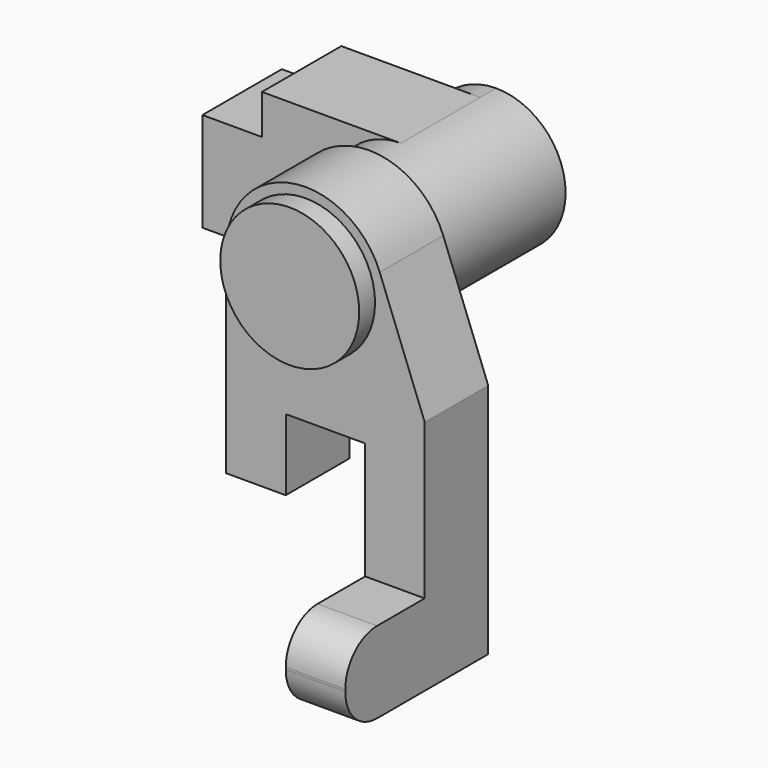
from build123d import *

# Parameters (mm, degrees)
F0_R     = 17.5
F0_W     = 15
F0_H     = 20.5103583336
F1_DEPTH = 20
F2_DEPTH = 45
F3_DEPTH = 25
F4_DEPTH = 40
F5_R     = 10
F7_DEPTH = 30
F8_DEPTH = 5


with BuildPart() as f1:
    # F0 (on Front) → F1 (new body)
    with BuildSketch(Plane.XZ):
        with BuildLine():
            ThreePointArc((-20, 0), (0, -20), (20, 0))
            ThreePointArc((20, 0), (19.6666655648, 3.6362433309), (18.6777734439, 7.1512781501))
            ThreePointArc((18.6777734439, 7.1512781501), (-3.6362433309, 19.6666655648), (-20, 0))
        make_face()
        Circle(F0_R, mode=Mode.SUBTRACT)
        with BuildLine():
            ThreePointArc((18.6777734439, 7.1512781501), (19.6666655648, 3.6362433309), (20, 0))
            ThreePointArc((20, 0), (0, -20), (-20, 0))
            Line((-20, 0), (-20, -50))
            Line((-20, -50), (-5, -50))
            Line((-5, -50), (-5, -32))
            Line((-5, -32), (15, -32))
            Line((15, -32), (15, -61.4896416664))
            Line((15, -61.4896416664), (30, -61.4896416664))
            Line((30, -61.4896416664), (30, -22.4202163517))
            Line((30, -22.4202163517), (18.6777734439, 7.1512781501))
        make_face()
        with Locations((22.5, -71.7448208332)):
            Rectangle(F0_W, F0_H)
    extrude(amount=F1_DEPTH)

    # F0 (on Front) → F2 (join)
    with BuildSketch(Plane.XZ):
        with Locations((22.5, -71.7448208332)):
            Rectangle(F0_W, F0_H)
    extrude(amount=F2_DEPTH)

    # F0 (on Front) → F3 (join)
    with BuildSketch(Plane.XZ):
        Circle(F0_R)
    extrude(amount=F3_DEPTH)

    # F0 (on Front) → F4 (join)
    with BuildSketch(Plane.XZ):
        Circle(F0_R)
    extrude(amount=-F4_DEPTH)

    # F5
    f5_edges = [f1.edges().sort_by_distance(p)[0] for p in [
        (22.5, -45, -61.489642),
        (22.5, -45, -82),
    ]]
    fillet(f5_edges, radius=F5_R)

    # F6 (on face) → F7 (join)
    with BuildSketch(Plane(origin=(0, 40, 0), x_dir=(-1, 0, 0), z_dir=(0, 1, 0))):
        with BuildLine():
            Line((35, 17.5), (0, 17.5))
            ThreePointArc((0, 17.5), (12.3743686708, 12.3743686708), (17.5, 0))
            ThreePointArc((17.5, 0), (12.3743686708, -12.3743686708), (0, -17.5))
            Line((0, -17.5), (50, -17.5))
            Line((50, -17.5), (50, 7.5))
            Line((50, 7.5), (35, 7.5))
            Line((35, 7.5), (35, 17.5))
        make_face()
    extrude(amount=-F7_DEPTH)

    # F6 (on face) → F8 (cut)
    with BuildSketch(Plane(origin=(0, 40, 0), x_dir=(-1, 0, 0), z_dir=(0, 1, 0))):
        with BuildLine():
            Line((35, 17.5), (0, 17.5))
            ThreePointArc((0, 17.5), (12.3743686708, 12.3743686708), (17.5, 0))
            ThreePointArc((17.5, 0), (12.3743686708, -12.3743686708), (0, -17.5))
            Line((0, -17.5), (50, -17.5))
            Line((50, -17.5), (50, 7.5))
            Line((50, 7.5), (35, 7.5))
            Line((35, 7.5), (35, 17.5))
        make_face()
    extrude(amount=-F8_DEPTH, mode=Mode.SUBTRACT)


solid = f1.part
